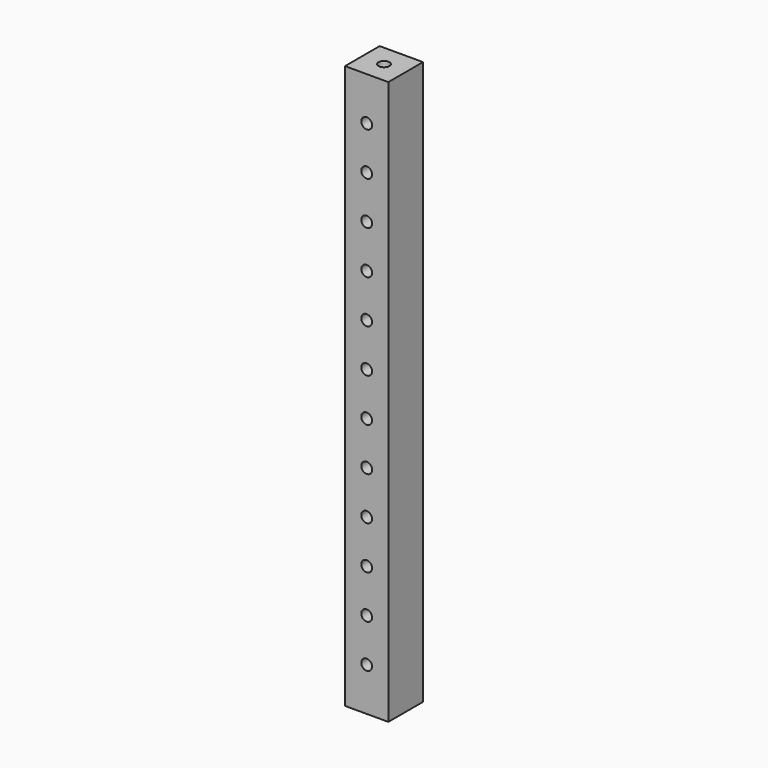
from build123d import *

# Parameters (mm, degrees)
F0_W      = 10
F0_H      = 10
F1_DEPTH  = 130
F3_D      = 2.5
F3_DEPTH  = 10
F5_D      = 2.5
F5_DEPTH  = 10
F7_D      = 2.5
F7_DEPTH  = 10
F9_D      = 2.5
F9_DEPTH  = 10
F11_D     = 2.5
F11_DEPTH = 10
F13_D     = 2.5
F13_DEPTH = 10
F15_D     = 2.5
F15_DEPTH = 10


with BuildPart() as f1:
    # F0 (on Top) → F1 (new body)
    with BuildSketch(Plane.XY):
        with Locations((5, 5)):
            Rectangle(F0_W, F0_H)
    extrude(amount=F1_DEPTH)

    # F3
    with Locations(Plane.XZ):
        with Locations((5, 10), (5, 20), (5, 30)):
            Hole(F3_D / 2, depth=F3_DEPTH)

    # F5
    with Locations(Plane.XZ):
        with Locations((5, 40), (5, 50), (5, 60)):
            Hole(F5_D / 2, depth=F5_DEPTH)

    # F7
    with Locations(Plane.XZ):
        with Locations((5, 80), (5, 90), (5, 100), (5, 110)):
            Hole(F7_D / 2, depth=F7_DEPTH)

    # F9
    with Locations(Plane.XZ):
        with Locations((5, 70)):
            Hole(F9_D / 2, depth=F9_DEPTH)

    # F11
    with Locations(Plane.XZ):
        with Locations((5, 120)):
            Hole(F11_D / 2, depth=F11_DEPTH)

    # F13
    with Locations(Plane.XY.offset(130)):
        with Locations((5, 5)):
            Hole(F13_D / 2, depth=F13_DEPTH)

    # F15
    with Locations(Plane(origin=(0, 0, 0), x_dir=(1, 0, 0), z_dir=(0, 0, -1))):
        with Locations((5, -5)):
            Hole(F15_D / 2, depth=F15_DEPTH)


solid = f1.part
